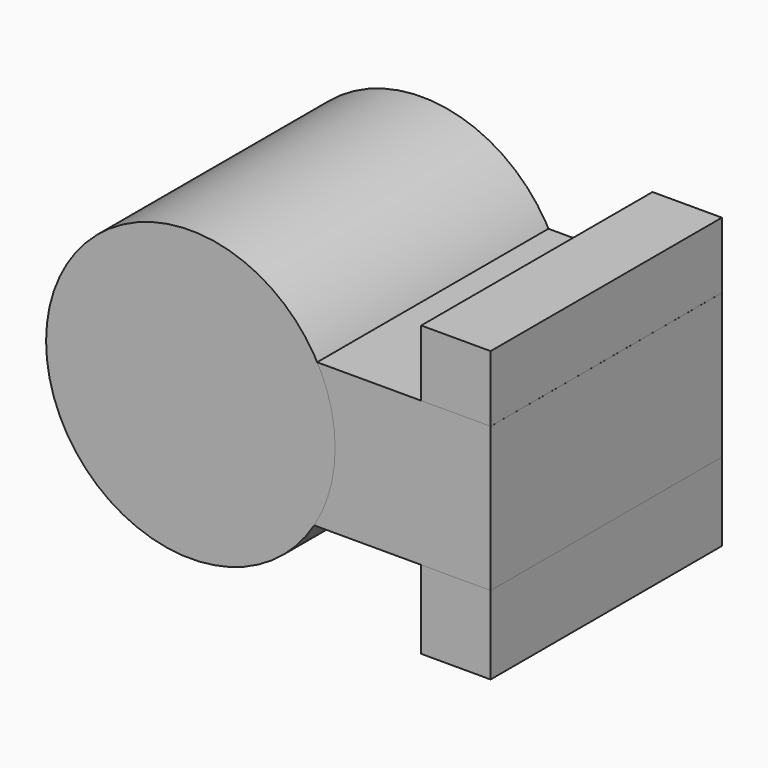
from build123d import *

# Parameters (mm, degrees)
F2_W     = 24
F2_H     = 100
F3_DEPTH = 100
F1_W     = 80
F1_H     = 50
F0_R     = 50


with BuildPart() as f3:
    # F2 (on Front) → F3 (new body)
    with BuildSketch(Plane.XZ):
        with Locations((12, -3.0457645655)):
            Rectangle(F2_W, F2_H)
    extrude(amount=F3_DEPTH)


with BuildPart() as f3b:
    # F1 (on Front) → F3, piece 2 (new body)
    with BuildSketch(Plane.XZ):
        with Locations((-15.9892786234, -0.9483918548)):
            Rectangle(F1_W, F1_H)
    extrude(amount=F3_DEPTH)


with BuildPart() as f3c:
    # F0 (on Front) → F3, piece 3 (new body)
    with BuildSketch(Plane.XZ):
        with Locations((-79.7675750193, 0)):
            Circle(F0_R)
    extrude(amount=F3_DEPTH)


solid = Compound([f3.part, f3b.part, f3c.part])
